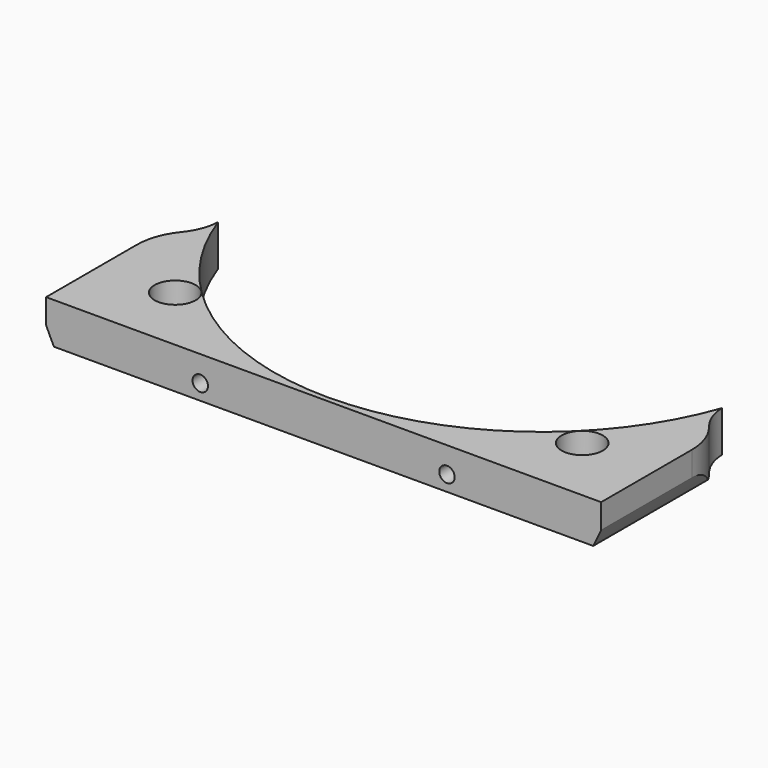
from build123d import *

# Parameters (mm, degrees)
CYLINDER1548_R               = 59
CYLINDER1548_DEPTH           = 40
CYLINDER1546_R               = 1.5
CYLINDER1546_DEPTH           = 20
CYLINDER1538_R               = 1.5
CYLINDER1538_DEPTH           = 20
CYLINDER1502_R               = 1.5
CYLINDER1502_DEPTH           = 20
CYLINDER1540_R               = 1.5
CYLINDER1540_DEPTH           = 20
BOX540_W                     = 6
BOX540_H                     = 2
BOX540_DEPTH                 = 6
BOX536_W                     = 6
BOX536_H                     = 2
BOX536_DEPTH                 = 6
BOX535_W                     = 6
BOX535_H                     = 2
BOX535_DEPTH                 = 6
BOX539_W                     = 6
BOX539_H                     = 2
BOX539_DEPTH                 = 6
CYLINDER1512_R               = 4
CYLINDER1512_DEPTH           = 20
CYLINDER1512_PLACEMENT_ANGLE = 45
CYLINDER1539_R               = 4
CYLINDER1539_DEPTH           = 20
CYLINDER1539_PLACEMENT_ANGLE = 45
CYLINDER1510_R               = 10
CYLINDER1510_DEPTH           = 40
CYLINDER1541_R               = 10
CYLINDER1541_DEPTH           = 40
CYLINDER1537_R               = 52
CYLINDER1537_DEPTH           = 8
BOX537_W                     = 108
BOX537_H                     = 36
BOX537_DEPTH                 = 8
FILLET024_R                  = 12


with BuildPart() as obj1:
    # Cylinder1548 → Cylinder1548 (new body)
    with BuildSketch(Plane(origin=(0, -17, 13), x_dir=(1, 0, 0), z_dir=(0, -1, 0))):
        Circle(CYLINDER1548_R)
    extrude(amount=CYLINDER1548_DEPTH)


with BuildPart() as obj2:
    # Cylinder1546 → Cylinder1546 (new body)
    with BuildSketch(Plane(origin=(24, -40, -5), x_dir=(1, 0, 0), z_dir=(0, -1, 0))):
        Circle(CYLINDER1546_R)
    extrude(amount=CYLINDER1546_DEPTH)


with BuildPart() as obj3:
    # Cylinder1538 → Cylinder1538 (new body)
    with BuildSketch(Plane(origin=(51, -40, 7), x_dir=(1, 0, 0), z_dir=(0, -1, 0))):
        Circle(CYLINDER1538_R)
    extrude(amount=CYLINDER1538_DEPTH)


with BuildPart() as obj4:
    # Cylinder1502 → Cylinder1502 (new body)
    with BuildSketch(Plane(origin=(-51, -40, 7), x_dir=(1, 0, 0), z_dir=(0, -1, 0))):
        Circle(CYLINDER1502_R)
    extrude(amount=CYLINDER1502_DEPTH)


with BuildPart() as compound912:
    # Cylinder1540 → Cylinder1540 (new body)
    with BuildSketch(Plane(origin=(-24, -40, -5), x_dir=(1, 0, 0), z_dir=(0, -1, 0))):
        Circle(CYLINDER1540_R)
    extrude(amount=CYLINDER1540_DEPTH)

    # Compound912: union obj2, obj3, obj4
    add(obj2.part)
    add(obj3.part)
    add(obj4.part)


with BuildPart() as krychle540:
    # Box540 → Box540 (new body)
    with BuildSketch(Plane(origin=(21, -47, -8), x_dir=(1, 0, 0), z_dir=(0, 0, 1))):
        with Locations((3, 1)):
            Rectangle(BOX540_W, BOX540_H)
    extrude(amount=BOX540_DEPTH)


with BuildPart() as krychle536:
    # Box536 → Box536 (new body)
    with BuildSketch(Plane(origin=(48, -45, 4), x_dir=(1, 0, 0), z_dir=(0, 0, 1))):
        with Locations((3, 1)):
            Rectangle(BOX536_W, BOX536_H)
    extrude(amount=BOX536_DEPTH)


with BuildPart() as krychle535:
    # Box535 → Box535 (new body)
    with BuildSketch(Plane(origin=(-54, -45, 4), x_dir=(1, 0, 0), z_dir=(0, 0, 1))):
        with Locations((3, 1)):
            Rectangle(BOX535_W, BOX535_H)
    extrude(amount=BOX535_DEPTH)


with BuildPart() as compound916:
    # Box539 → Box539 (new body)
    with BuildSketch(Plane(origin=(-27, -47, -8), x_dir=(1, 0, 0), z_dir=(0, 0, 1))):
        with Locations((3, 1)):
            Rectangle(BOX539_W, BOX539_H)
    extrude(amount=BOX539_DEPTH)

    # Compound916: union Krychle540, Krychle536, Krychle535
    add(krychle540.part)
    add(krychle536.part)
    add(krychle535.part)


with BuildPart() as obj5:
    # Cylinder1512 → Cylinder1512 (new body)
    with BuildSketch(Plane.XY):
        Circle(CYLINDER1512_R)
    extrude(amount=CYLINDER1512_DEPTH)


with BuildPart() as obj5_1:
    # Cylinder1512 placement: moved
    add(obj5.part.moved(Location((39.6, -39.6, -10))).rotate(Axis((39.6, -39.6, -10), (0, 0, 1)), CYLINDER1512_PLACEMENT_ANGLE))


with BuildPart() as compound921:
    # Cylinder1539 → Cylinder1539 (new body)
    with BuildSketch(Plane.XY):
        Circle(CYLINDER1539_R)
    extrude(amount=CYLINDER1539_DEPTH)


with BuildPart() as compound921_1:
    # Cylinder1539 placement: moved
    add(compound921.part.moved(Location((-39.6, -39.6, -10))).rotate(Axis((-39.6, -39.6, -10), (0, 0, -1)), CYLINDER1539_PLACEMENT_ANGLE))

    # Compound921: union obj5
    add(obj5_1.part)


with BuildPart() as obj6:
    # Cylinder1510 → Cylinder1510 (new body)
    with BuildSketch(Plane(origin=(-59, -17, 0), x_dir=(1, 0, 0), z_dir=(0, 0, 1))):
        Circle(CYLINDER1510_R)
    extrude(amount=CYLINDER1510_DEPTH)


with BuildPart() as compound919:
    # Cylinder1541 → Cylinder1541 (new body)
    with BuildSketch(Plane(origin=(59, -17, 0), x_dir=(1, 0, 0), z_dir=(0, 0, 1))):
        Circle(CYLINDER1541_R)
    extrude(amount=CYLINDER1541_DEPTH)

    # Compound919: union obj6
    add(obj6.part)


with BuildPart() as obj7:
    # Cylinder1537 → Cylinder1537 (new body)
    with BuildSketch(Plane.XY.offset(20)):
        Circle(CYLINDER1537_R)
    extrude(amount=CYLINDER1537_DEPTH)


with BuildPart() as common006:
    # Box537 → Box537 (new body)
    with BuildSketch(Plane(origin=(-54, -53, 20), x_dir=(1, 0, 0), z_dir=(0, 0, 1))):
        with Locations((54, 18)):
            Rectangle(BOX537_W, BOX537_H)
    extrude(amount=BOX537_DEPTH)

    # Cut548: cut obj7
    add(obj7.part, mode=Mode.SUBTRACT)


with BuildPart() as common006_1:
    # Cut548 placement: moved
    add(common006.part.moved(Location((0, 0, -20))))

    # Cut544: cut Compound919
    add(compound919.part, mode=Mode.SUBTRACT)


with BuildPart() as common006_2:
    # Cut544 placement: moved
    add(common006_1.part.moved(Location((0, 0, -8))))

    # Cut546: cut Compound921
    add(compound921_1.part, mode=Mode.SUBTRACT)

    # Cut547: cut Compound916
    add(compound916.part, mode=Mode.SUBTRACT)

    # Cut545: cut Compound912
    add(compound912.part, mode=Mode.SUBTRACT)

    # Fillet024
    fillet024_edges = [common006_2.edges().sort_by_distance(p)[0] for p in [
        (-54, -25.660254, -4),
        (54, -25.660254, -4),
    ]]
    fillet(fillet024_edges, radius=FILLET024_R)


with BuildPart() as common006_3:
    # Fillet024 placement: moved
    add(common006_2.part.moved(Location((0, 0, -6))))

    # Common006: intersect obj1
    add(obj1.part, mode=Mode.INTERSECT)


solid = common006_3.part
